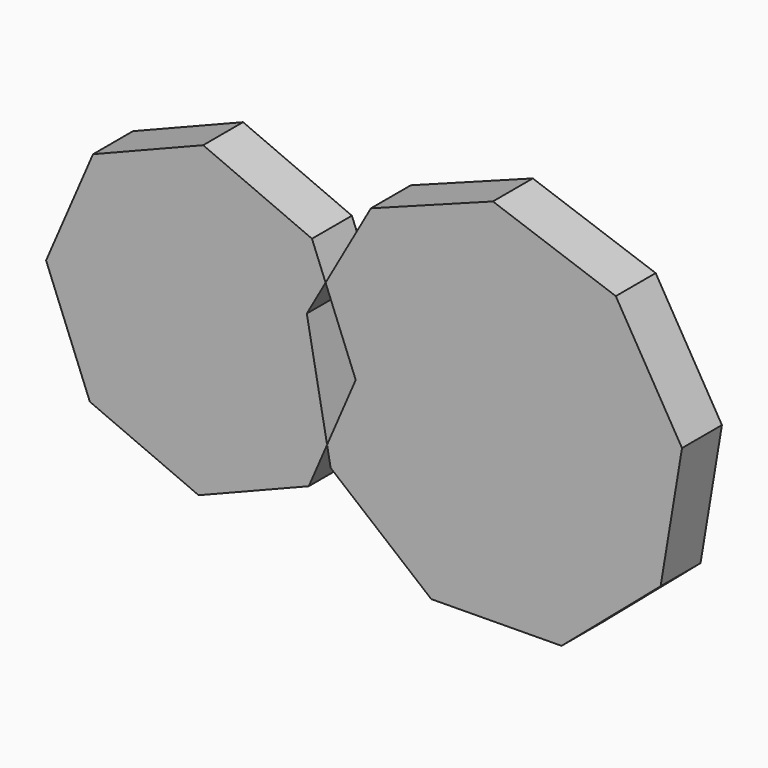
from build123d import *

# Parameters (mm, degrees)
F1_DEPTH = 25.4


with BuildPart() as f1:
    # F0 (on Front) → F1 (new body)
    with BuildSketch(Plane.XZ):
        Polygon((43.64546, 35.669267), (-18.926139, 57.767407), (-81.063176, 34.475315), (-104.121173, -6.360219), (-88.779969, -44.98597), (-103.361179, -78.781065), (-101.542791, -88.546044), (-50.30273, -130.71225), (16.053349, -130.076962), (66.4767, -86.937437), (77.373675, -21.479139), align=None)
        Polygon((-113.69104, -23.308379), (-104.121173, -6.360219), (-111.054445, 11.096222), (-166.460975, 35.001887), (-222.543166, 12.727412), (-246.448832, -42.679119), (-224.174356, -98.76131), (-168.767826, -122.666975), (-112.685635, -100.3925), (-103.361179, -78.781065), align=None)
    extrude(amount=F1_DEPTH)


solid = f1.part
